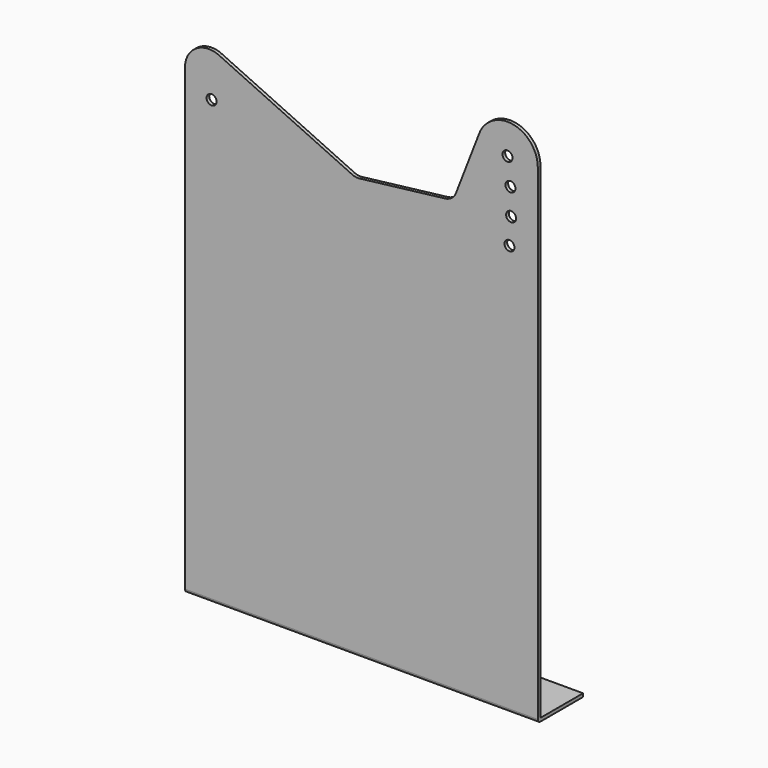
from build123d import *

# Parameters (mm, degrees)
F1_R     = 4.7625
F2_DEPTH = 3.175
F3_R     = 12.7
F5_DEPTH = 336.55
F6_R     = 3.175


with BuildPart() as f2:
    # F1 (on Front) → F2 (new body)
    with BuildSketch(Plane.XZ):
        with BuildLine():
            Line((0, 438.028063), (0, 0))
            Line((0, 0), (336.55, 0))
            Line((336.55, 0), (336.55, 463.55))
            ThreePointArc((336.55, 463.55), (312.97337, 491.937548), (280.739907, 473.973298))
            Line((280.739907, 473.973298), (255.797312, 409.526661))
            Line((255.797312, 409.526661), (166.350515, 398.862006))
            Line((166.350515, 398.862006), (162.776801, 398.435916))
            Line((162.776801, 398.435916), (159.510839, 399.948027))
            Line((159.510839, 399.948027), (32.464507, 458.769359))
            ThreePointArc((32.464507, 458.769359), (10.552386, 457.288903), (0, 438.028063))
        make_face()
        with Locations((25.4, 419.1)):
            Circle(F1_R, mode=Mode.SUBTRACT)
        with Locations((309.557942, 388.978135)):
            Circle(F1_R, mode=Mode.SUBTRACT)
        with Locations((311.101928, 413.858754)):
            Circle(F1_R, mode=Mode.SUBTRACT)
        with Locations((310.471551, 438.779263)):
            Circle(F1_R, mode=Mode.SUBTRACT)
        with Locations((307.671607, 463.55)):
            Circle(F1_R, mode=Mode.SUBTRACT)
    extrude(amount=F2_DEPTH)

    # F3
    f3_edges = [f2.edges().sort_by_distance(p)[0] for p in [
        (162.776801, -1.5875, 398.435916),
        (255.797312, -1.5875, 409.526661),
    ]]
    fillet(f3_edges, radius=F3_R)

    # F4 (on Right) → F5 (join, through all)
    with BuildSketch(Plane.YZ):
        Polygon((0, 0), (-3.175, 0), (-3.175, -3.175), (50.8, -3.175), (50.8, 0), align=None)
    extrude(amount=F5_DEPTH)

    # F6
    f6_edges = [f2.edges().sort_by_distance(p)[0] for p in [
        (168.275, -3.175, -3.175),
    ]]
    fillet(f6_edges, radius=F6_R)


solid = f2.part
